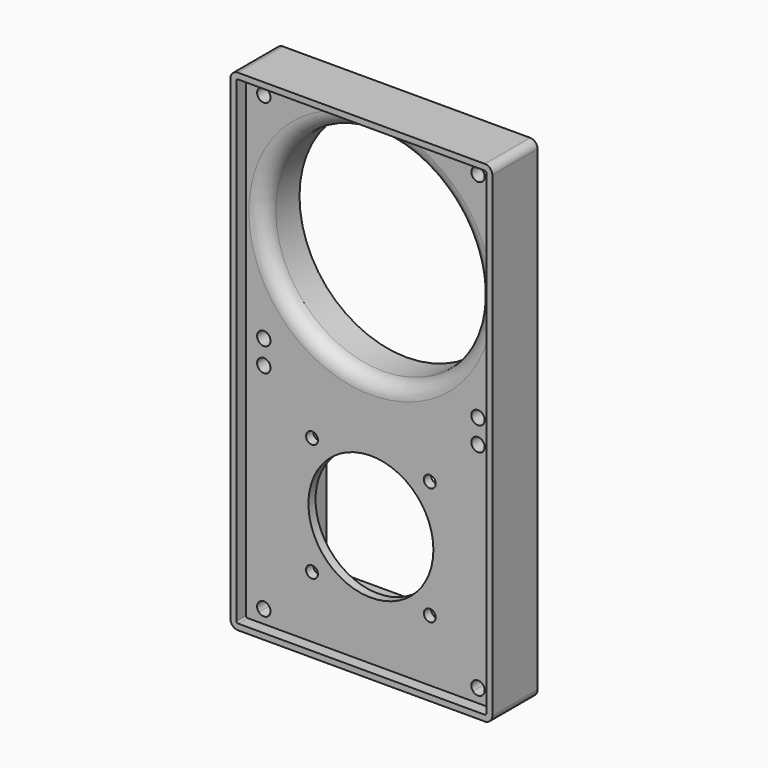
from build123d import *

# Parameters (mm, degrees)
F1_DEPTH = 19
F0_R     = 2.25
F0_W     = 54
F0_H     = 54
F0_R_2   = 36
F0_R_3   = 2
F0_R_4   = 21
F2_DEPTH = 15
F3_DEPTH = 12
F4_R     = 5


with BuildPart() as f1:
    # F0 (on Front) → F1 (new body)
    with BuildSketch(Plane.XZ):
        with BuildLine():
            Line((-41.5, -82.5), (41.5, -82.5))
            ThreePointArc((41.5, -82.5), (43.267767, -81.767767), (44, -80))
            Line((44, -80), (44, 80))
            ThreePointArc((44, 80), (43.267767, 81.767767), (41.5, 82.5))
            Line((41.5, 82.5), (-41.5, 82.5))
            ThreePointArc((-41.5, 82.5), (-43.267767, 81.767767), (-44, 80))
            Line((-44, 80), (-44, -80))
            ThreePointArc((-44, -80), (-43.267767, -81.767767), (-41.5, -82.5))
        make_face()
        with BuildLine():
            ThreePointArc((-41.5, -80.5), (-41.853553, -80.353553), (-42, -80))
            Line((-42, -80), (-42, 80))
            ThreePointArc((-42, 80), (-41.853553, 80.353553), (-41.5, 80.5))
            Line((-41.5, 80.5), (41.5, 80.5))
            ThreePointArc((41.5, 80.5), (41.853553, 80.353553), (42, 80))
            Line((42, 80), (42, -80))
            ThreePointArc((42, -80), (41.853553, -80.353553), (41.5, -80.5))
            Line((41.5, -80.5), (-41.5, -80.5))
        make_face(mode=Mode.SUBTRACT)
    extrude(amount=F1_DEPTH)

    # F0 (on Front) → F2 (join)
    with BuildSketch(Plane.XZ):
        with BuildLine():
            Line((-42, 80), (-42, -80))
            ThreePointArc((-42, -80), (-41.853553, -80.353553), (-41.5, -80.5))
            Line((-41.5, -80.5), (41.5, -80.5))
            ThreePointArc((41.5, -80.5), (41.853553, -80.353553), (42, -80))
            Line((42, -80), (42, 80))
            ThreePointArc((42, 80), (41.853553, 80.353553), (41.5, 80.5))
            Line((41.5, 80.5), (-41.5, 80.5))
            ThreePointArc((-41.5, 80.5), (-41.853553, 80.353553), (-42, 80))
        make_face()
        with BuildLine():
            ThreePointArc((-37.677051, 77.5), (-36, 78.25), (-34.322949, 77.5))
            Line((-34.322949, 77.5), (34.322949, 77.5))
            ThreePointArc((34.322949, 77.5), (36, 78.25), (37.677051, 77.5))
            Line((37.677051, 77.5), (39, 77.5))
            Line((39, 77.5), (39, -77.5))
            Line((39, -77.5), (37.677051, -77.5))
            ThreePointArc((37.677051, -77.5), (36, -78.25), (34.322949, -77.5))
            Line((34.322949, -77.5), (-34.322949, -77.5))
            ThreePointArc((-34.322949, -77.5), (-36, -78.25), (-37.677051, -77.5))
            Line((-37.677051, -77.5), (-39, -77.5))
            Line((-39, -77.5), (-39, 77.5))
            Line((-39, 77.5), (-37.677051, 77.5))
        make_face(mode=Mode.SUBTRACT)
        with BuildLine():
            ThreePointArc((-34.322949, 77.5), (-33.898112, 76.80285), (-33.75, 76))
            ThreePointArc((-33.75, 76), (-36.80285, 73.898112), (-37.677051, 77.5))
            Line((-37.677051, 77.5), (-39, 77.5))
            Line((-39, 77.5), (-39, -77.5))
            Line((-39, -77.5), (-37.677051, -77.5))
            ThreePointArc((-37.677051, -77.5), (-36.80285, -73.898112), (-33.75, -76))
            ThreePointArc((-33.75, -76), (-33.898112, -76.80285), (-34.322949, -77.5))
            Line((-34.322949, -77.5), (34.322949, -77.5))
            ThreePointArc((34.322949, -77.5), (35.19715, -73.898112), (38.25, -76))
            ThreePointArc((38.25, -76), (38.101888, -76.80285), (37.677051, -77.5))
            Line((37.677051, -77.5), (39, -77.5))
            Line((39, -77.5), (39, 77.5))
            Line((39, 77.5), (37.677051, 77.5))
            ThreePointArc((37.677051, 77.5), (38.101888, 76.80285), (38.25, 76))
            ThreePointArc((38.25, 76), (35.19715, 73.898112), (34.322949, 77.5))
            Line((34.322949, 77.5), (-34.322949, 77.5))
        make_face()
        with Locations((-36, -4)):
            Circle(F0_R, mode=Mode.SUBTRACT)
        with Locations((0, -40)):
            Rectangle(F0_W, F0_H, mode=Mode.SUBTRACT)
        with Locations((36, -4)):
            Circle(F0_R, mode=Mode.SUBTRACT)
        with Locations((-36, 4)):
            Circle(F0_R, mode=Mode.SUBTRACT)
        with Locations((0, 40)):
            Circle(F0_R_2, mode=Mode.SUBTRACT)
        with Locations((36, 4)):
            Circle(F0_R, mode=Mode.SUBTRACT)
        with Locations((0, -40)):
            Rectangle(F0_W, F0_H)
        with Locations((-19.79899, -59.79899)):
            Circle(F0_R_3, mode=Mode.SUBTRACT)
        with Locations((-19.79899, -20.20101)):
            Circle(F0_R_3, mode=Mode.SUBTRACT)
        with Locations((19.79899, -59.79899)):
            Circle(F0_R_3, mode=Mode.SUBTRACT)
        with Locations((0, -40)):
            Circle(F0_R_4, mode=Mode.SUBTRACT)
        with Locations((19.79899, -20.20101)):
            Circle(F0_R_3, mode=Mode.SUBTRACT)
    extrude(amount=F2_DEPTH)

    # F0 (on Front) → F3 (cut)
    with BuildSketch(Plane.XZ):
        with Locations((0, -40)):
            Rectangle(F0_W, F0_H)
        with Locations((-19.79899, -59.79899)):
            Circle(F0_R_3, mode=Mode.SUBTRACT)
        with Locations((-19.79899, -20.20101)):
            Circle(F0_R_3, mode=Mode.SUBTRACT)
        with Locations((19.79899, -59.79899)):
            Circle(F0_R_3, mode=Mode.SUBTRACT)
        with Locations((0, -40)):
            Circle(F0_R_4, mode=Mode.SUBTRACT)
        with Locations((19.79899, -20.20101)):
            Circle(F0_R_3, mode=Mode.SUBTRACT)
    extrude(amount=F3_DEPTH, mode=Mode.SUBTRACT)

    # F4
    f4_edges = [f1.edges().sort_by_distance(p)[0] for p in [
        (-36, -15, 40),
    ]]
    fillet(f4_edges, radius=F4_R)


solid = f1.part
